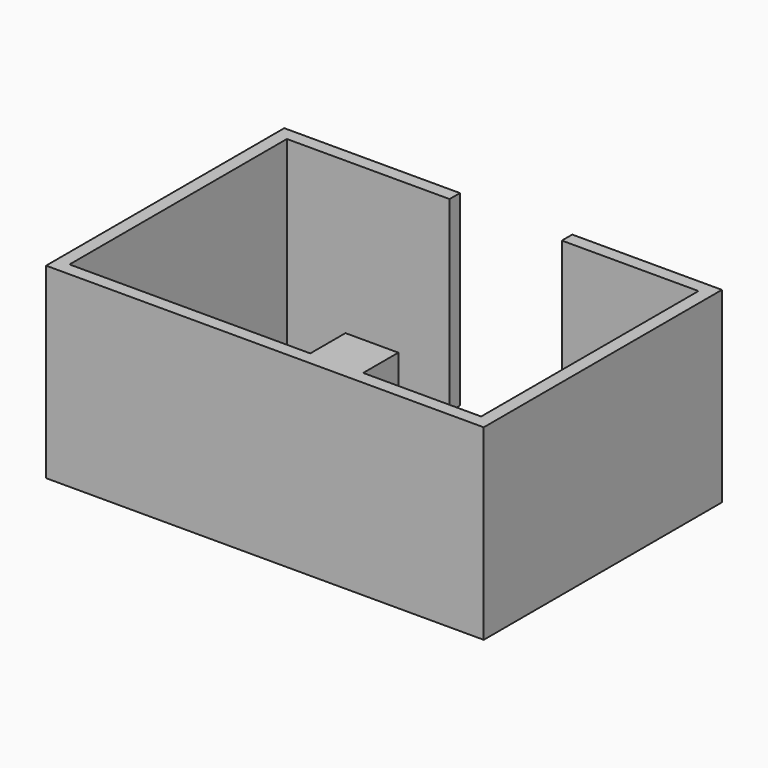
from build123d import *

# Parameters (mm, degrees)
F0_W     = 325
F0_H     = 270
F1_DEPTH = 1150


with BuildPart() as f1:
    # F0 (on Top) → F1 (new body)
    with BuildSketch(Plane.XY):
        Polygon((-1265, 435), (-1265, 835), (-415, 835), (-335, 835), (-265, 835), (-265, 915), (-1345, 915), (-1345, -915), (1345, -915), (1345, 915), (425, 915), (425, 835), (495, 835), (1265, 835), (1265, -835), (540, -835), (215, -835), (-1265, -835), align=None)
        with Locations((377.5, -700)):
            Rectangle(F0_W, F0_H)
    extrude(amount=F1_DEPTH)


solid = f1.part
